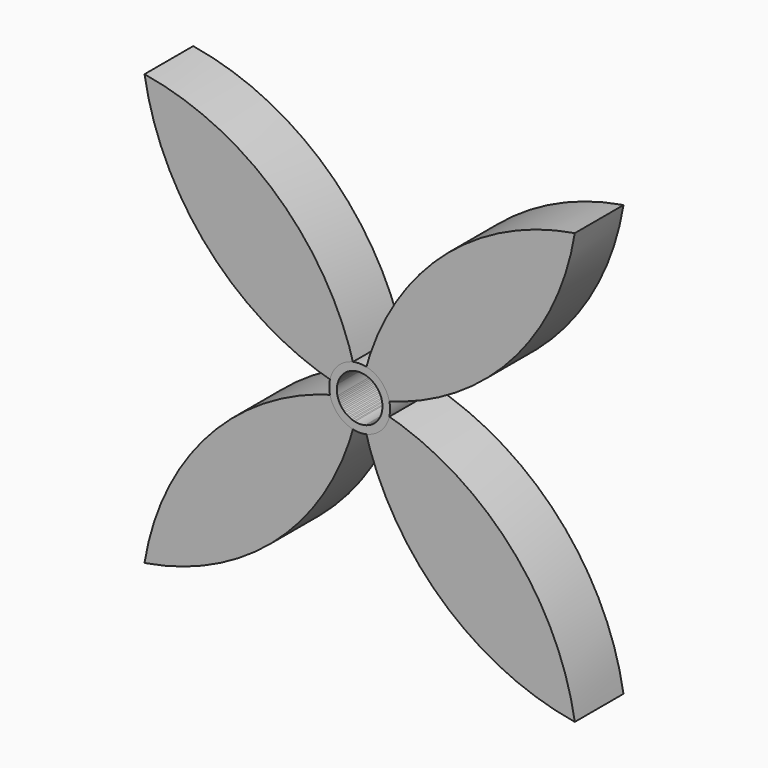
from build123d import *

# Parameters (mm, degrees)
F1_DEPTH = 10.16
F2_R     = 5.082305
F3_DEPTH = 10.16
F4_R     = 3.81
F5_DEPTH = 37.338


with BuildPart() as f1:
    # F0 (on Front) → F1 (new body)
    with BuildSketch(Plane.XZ):
        with BuildLine():
            ThreePointArc((0, 0), (23.756418, 12.164606), (35.921024, 35.921024))
            ThreePointArc((35.921024, 35.921024), (12.164606, 23.756419), (0, 0))
        make_face()
        with BuildLine():
            ThreePointArc((-35.921024, -35.921024), (-12.164606, -23.756418), (0, 0))
            ThreePointArc((0, 0), (-23.756418, -12.164606), (-35.921024, -35.921024))
        make_face()
        with BuildLine():
            ThreePointArc((0, 0), (-12.164606, 23.756418), (-35.921024, 35.921024))
            ThreePointArc((-35.921024, 35.921024), (-23.756418, 12.164606), (0, 0))
        make_face()
        with BuildLine():
            ThreePointArc((0, 0), (12.164606, -23.756418), (35.921024, -35.921024))
            ThreePointArc((35.921024, -35.921024), (23.756418, -12.164606), (0, 0))
        make_face()
    extrude(amount=F1_DEPTH)


with BuildPart() as f3:
    # F2 (on face) → F3 (new body)
    with BuildSketch(Plane.XZ.offset(10.16)):
        Circle(F2_R)
    extrude(amount=-F3_DEPTH)


with BuildPart() as f5_tool:
    # F4 (on face) → F5 (new body)
    with BuildSketch(Plane(origin=(0, 0, 0), x_dir=(-1, 0, 0), z_dir=(0, 1, 0))):
        Circle(F4_R)
    extrude(amount=-F5_DEPTH)


with BuildPart() as f1_1:
    add(f1.part)

    # F5: cut by f5_tool
    add(f5_tool.part, mode=Mode.SUBTRACT)


with BuildPart() as f3_1:
    add(f3.part)

    # F5: cut by f5_tool
    add(f5_tool.part, mode=Mode.SUBTRACT)


solid = Compound([f1_1.part, f3_1.part])
